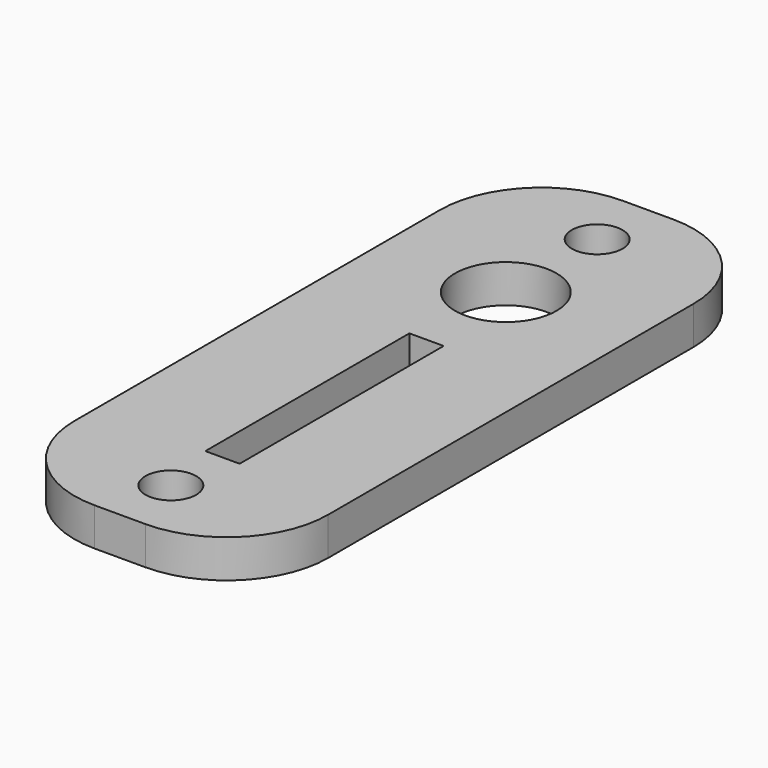
from build123d import *

# Parameters (mm, degrees)
CYLINDER375_R     = 2
CYLINDER375_DEPTH = 65
CYLINDER376_R     = 2
CYLINDER376_DEPTH = 65
CYLINDER374_R     = 4
CYLINDER374_DEPTH = 5
BOX467_W          = 2.7
BOX467_H          = 20.1
BOX467_DEPTH      = 5
BOX466_W          = 20
BOX466_H          = 52
BOX466_DEPTH      = 3
FILLET017_R       = 8


with BuildPart() as cylinder375:
    # Cylinder375 → Cylinder375 (new body)
    with BuildSketch(Plane(origin=(-90, -103, -10), x_dir=(1, 0, 0), z_dir=(0, 0, 1))):
        Circle(CYLINDER375_R)
    extrude(amount=CYLINDER375_DEPTH)


with BuildPart() as fusion370:
    # Cylinder376 → Cylinder376 (new body)
    with BuildSketch(Plane(origin=(-90, -61, -10), x_dir=(1, 0, 0), z_dir=(0, 0, 1))):
        Circle(CYLINDER376_R)
    extrude(amount=CYLINDER376_DEPTH)

    # Fusion370: union Cylinder375
    add(cylinder375.part)


with BuildPart() as fusion370_1:
    # Fusion370 placement: moved
    add(fusion370.part.moved(Location((-2, 0, 0))))


with BuildPart() as cylinder374:
    # Cylinder374 → Cylinder374 (new body)
    with BuildSketch(Plane(origin=(-92, -70, 39), x_dir=(1, 0, 0), z_dir=(0, 0, 1))):
        Circle(CYLINDER374_R)
    extrude(amount=CYLINDER374_DEPTH)


with BuildPart() as box467:
    # Box467 → Box467 (new body)
    with BuildSketch(Plane(origin=(-93.2, -98.1, 39), x_dir=(1, 0, 0), z_dir=(0, 0, 1))):
        with Locations((1.35, 10.05)):
            Rectangle(BOX467_W, BOX467_H)
    extrude(amount=BOX467_DEPTH)


with BuildPart() as cut405:
    # Box466 → Box466 (new body)
    with BuildSketch(Plane(origin=(-102, -108, 40.1), x_dir=(1, 0, 0), z_dir=(0, 0, 1))):
        with Locations((10, 26)):
            Rectangle(BOX466_W, BOX466_H)
    extrude(amount=BOX466_DEPTH)

    # Cut403: cut Box467
    add(box467.part, mode=Mode.SUBTRACT)

    # Fillet017
    fillet017_edges = [cut405.edges().sort_by_distance(p)[0] for p in [
        (-102, -108, 41.6),
        (-102, -56, 41.6),
        (-82, -108, 41.6),
        (-82, -56, 41.6),
    ]]
    fillet(fillet017_edges, radius=FILLET017_R)

    # Cut404: cut Cylinder374
    add(cylinder374.part, mode=Mode.SUBTRACT)

    # Cut405: cut Fusion370
    add(fusion370_1.part, mode=Mode.SUBTRACT)


with BuildPart() as cut405_1:
    # Cut405 placement: moved
    add(cut405.part.moved(Location((0, 123, 0))))


solid = cut405_1.part
